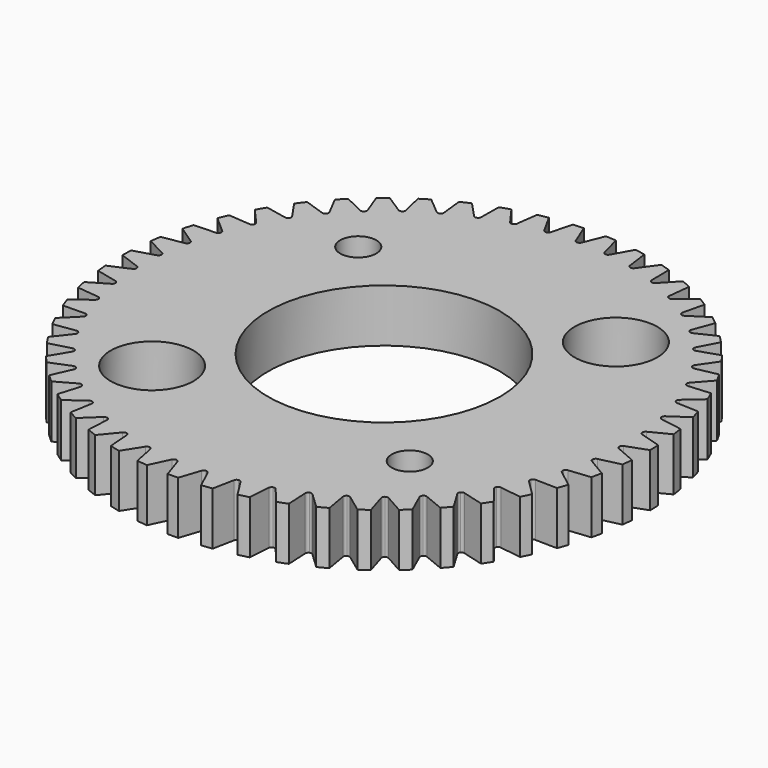
from build123d import *

# Parameters (mm, degrees)
F0_R     = 25.2909019914
F0_R_2   = 3.96875
F0_R_3   = 11.1125
F0_R_4   = 1.7272
F1_DEPTH = 5.08
F3_DEPTH = 5.08
F4_COUNT = 51
F4_ANGLE = 352.9411764706


with BuildPart() as f1:
    # F0 (on Top) → F1 (new body)
    with BuildSketch(Plane.XY):
        Circle(F0_R)
        with Locations((-12.3478521665, -12.3478521665)):
            Circle(F0_R_2, mode=Mode.SUBTRACT)
        Circle(F0_R_3, mode=Mode.SUBTRACT)
        with Locations((12.3478521665, -12.3478521665)):
            Circle(F0_R_4, mode=Mode.SUBTRACT)
        with Locations((-12.3478521665, 12.3478521665)):
            Circle(F0_R_4, mode=Mode.SUBTRACT)
        with Locations((12.3478521665, 12.3478521665)):
            Circle(F0_R_2, mode=Mode.SUBTRACT)
    extrude(amount=F1_DEPTH)

    # F2 (on face) → F3 (cut, through all)
    with BuildSketch(Plane.XY.offset(5.08)):
        with BuildLine():
            ThreePointArc((-0.2761308729, 23.3292983169), (-0.1666668752, 23.1936419785), (0, 23.1425816058))
            Line((0, 23.1425816058), (0, 25.2909019914))
            ThreePointArc((0, 25.2909019914), (-0.5274044289, 25.285402273), (-1.0545794809, 25.2689055097))
            Line((-1.0545794809, 25.2689055097), (-0.2761308729, 23.3292983169))
        make_face()
        with BuildLine():
            Line((0, 25.2909019914), (0, 23.1425816058))
            ThreePointArc((0, 23.1425816058), (0.1666668752, 23.1936419785), (0.2761308729, 23.3292983169))
            Line((0.2761308729, 23.3292983169), (1.0545794809, 25.2689055097))
            ThreePointArc((1.0545794809, 25.2689055097), (0.5274044289, 25.285402273), (0, 25.2909019914))
        make_face()
    f3 = extrude(amount=-F3_DEPTH, mode=Mode.SUBTRACT)

    # F4: F3 ×51 about axis
    f4_axis = Axis((0, 0, 0), (0, 0, -1))
    for i in range(1, F4_COUNT):
        add(f3.rotate(f4_axis, i * F4_ANGLE / (F4_COUNT - 1)), mode=Mode.SUBTRACT)


solid = f1.part
